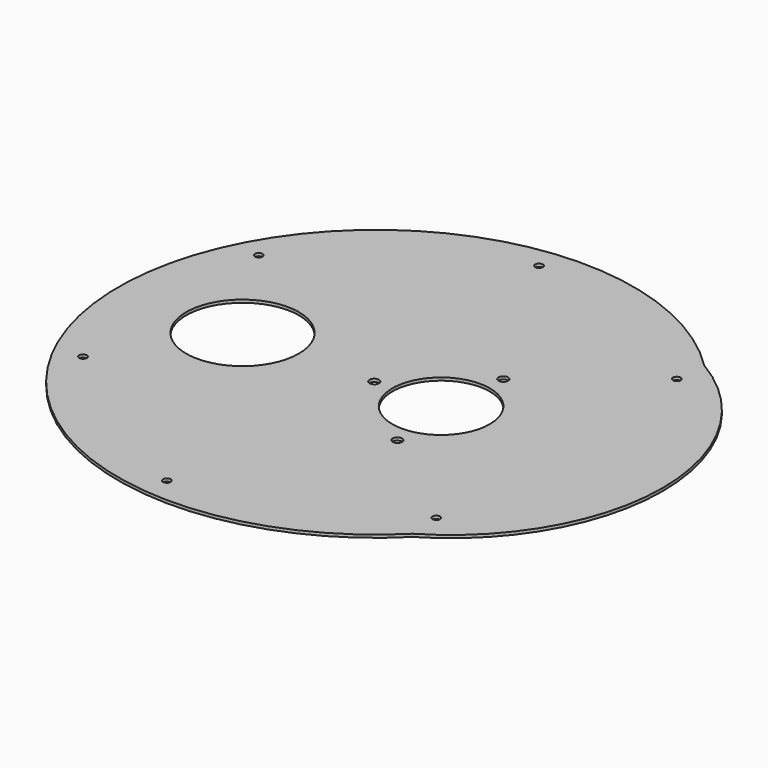
from build123d import *

# Parameters (mm, degrees)
F0_R     = 5
F0_R_2   = 59
F0_R_3   = 51
F1_DEPTH = 3
F2_R     = 4
F3_DEPTH = 3.001


with BuildPart() as f1:
    # F0 (on Top) → F1 (new body)
    with BuildSketch(Plane.XY):
        with BuildLine():
            ThreePointArc((190.918831, -190.918831), (270.806953, -109.941691), (300, 0))
            ThreePointArc((300, 0), (270.806953, 109.941691), (190.918831, 190.918831))
            ThreePointArc((190.918831, 190.918831), (-270, 0), (190.918831, -190.918831))
        make_face()
        with Locations((77.742117, -69.318765)):
            Circle(F0_R, mode=Mode.SUBTRACT)
        with Locations((-140, 0)):
            Circle(F0_R_2, mode=Mode.SUBTRACT)
        with Locations((-2, 0)):
            Circle(F0_R, mode=Mode.SUBTRACT)
        with Locations((68, 0)):
            Circle(F0_R_3, mode=Mode.SUBTRACT)
        with Locations((77.742117, 69.318765)):
            Circle(F0_R, mode=Mode.SUBTRACT)
    extrude(amount=F1_DEPTH)

    # F2 (on face) → F3 (cut, through all)
    with BuildSketch(Plane.XY.offset(3)):
        with Locations((188.446933, 158.125752)):
            Circle(F2_R)
        with Locations((-24.843429, 244.300652)):
            Circle(F2_R)
        with Locations((-215.556116, 115.66332)):
            Circle(F2_R)
        with Locations((-215.556116, -114.377745)):
            Circle(F2_R)
        with Locations((-24.843429, -243.015077)):
            Circle(F2_R)
        with Locations((188.446933, -156.840177)):
            Circle(F2_R)
    extrude(amount=-F3_DEPTH, mode=Mode.SUBTRACT)


solid = f1.part
